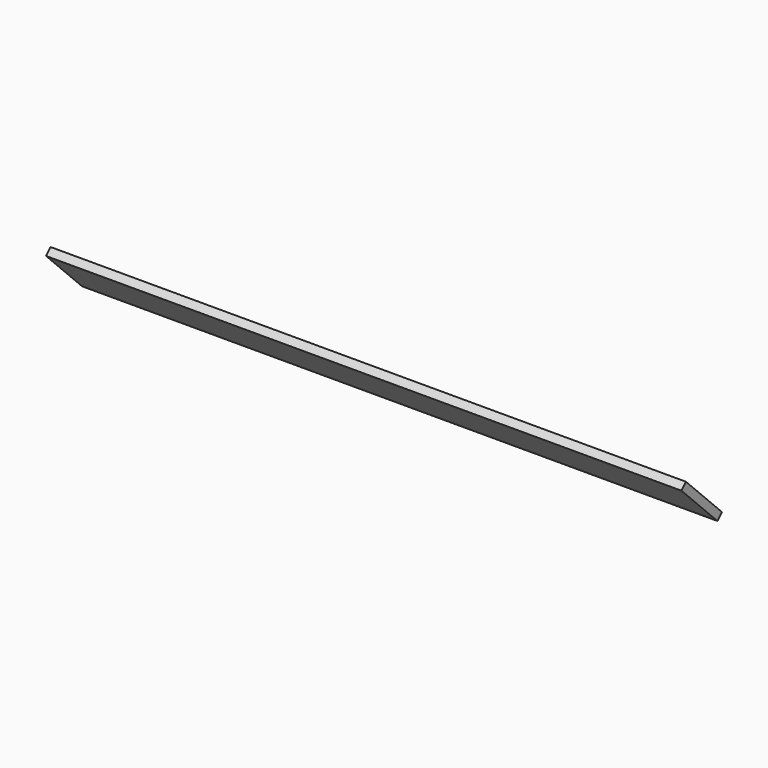
from build123d import *

# Parameters (mm, degrees)
BOX_W          = 508
BOX_H          = 50.8
BOX_DEPTH      = 6.35
BOX_ROLL_ANGLE = -45


with BuildPart() as part:
    # Box → Box (new body)
    with BuildSketch(Plane.XY):
        with Locations((254, 25.4)):
            Rectangle(BOX_W, BOX_H)
    extrude(amount=BOX_DEPTH)


with BuildPart() as part_1:
    # Box roll: moved
    add(part.part.rotate(Axis((0, 0, 0), (1, 0, 0)), BOX_ROLL_ANGLE))


with BuildPart() as part_2:
    # Box placement: moved
    add(part_1.part.moved(Location((-12.7, 0, 0))))


solid = part_2.part
